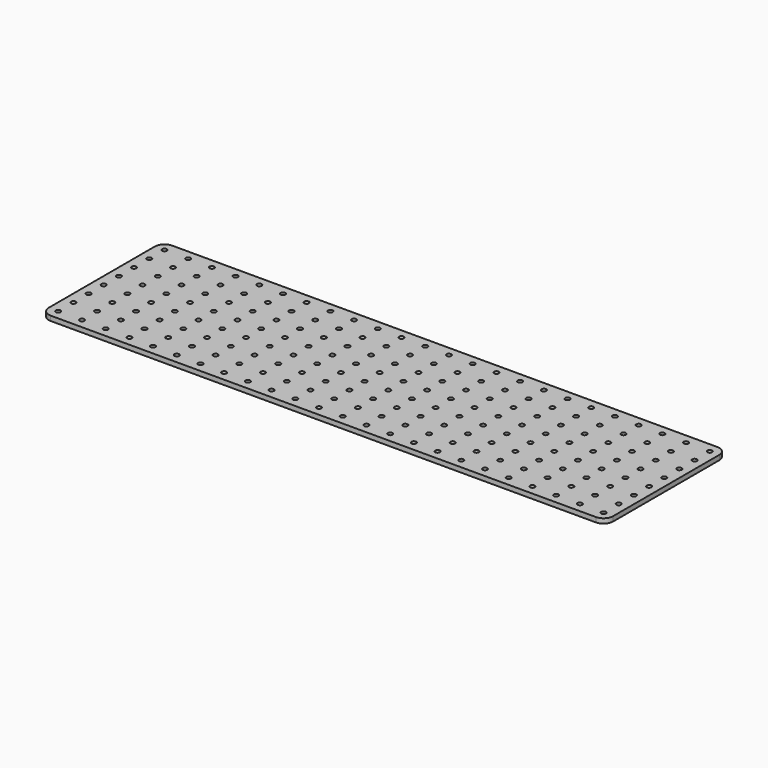
from build123d import *

# Parameters (mm, degrees)
F0_R     = 2.5
F1_DEPTH = 5


with BuildPart() as f1:
    # F0 (on Top) → F1 (new body)
    with BuildSketch(Plane.XY):
        with BuildLine():
            Line((287.5, 80), (-287.5, 80))
            ThreePointArc((-287.5, 80), (-294.571068, 77.071068), (-297.5, 70))
            Line((-297.5, 70), (-297.5, -70))
            ThreePointArc((-297.5, -70), (-294.571068, -77.071068), (-287.5, -80))
            Line((-287.5, -80), (287.5, -80))
            ThreePointArc((287.5, -80), (294.571068, -77.071068), (297.5, -70))
            Line((297.5, -70), (297.5, 70))
            ThreePointArc((297.5, 70), (294.571068, 77.071068), (287.5, 80))
        make_face()
        with Locations((-287.5, -70)):
            Circle(F0_R, mode=Mode.SUBTRACT)
        with Locations((-262.5, -70)):
            Circle(F0_R, mode=Mode.SUBTRACT)
        with Locations((-237.5, -70)):
            Circle(F0_R, mode=Mode.SUBTRACT)
        with Locations((-212.5, -70)):
            Circle(F0_R, mode=Mode.SUBTRACT)
        with Locations((-187.5, -70)):
            Circle(F0_R, mode=Mode.SUBTRACT)
        with Locations((-162.5, -70)):
            Circle(F0_R, mode=Mode.SUBTRACT)
        with Locations((-287.5, -50)):
            Circle(F0_R, mode=Mode.SUBTRACT)
        with Locations((-262.5, -50)):
            Circle(F0_R, mode=Mode.SUBTRACT)
        with Locations((-237.5, -50)):
            Circle(F0_R, mode=Mode.SUBTRACT)
        with Locations((-212.5, -50)):
            Circle(F0_R, mode=Mode.SUBTRACT)
        with Locations((-187.5, -50)):
            Circle(F0_R, mode=Mode.SUBTRACT)
        with Locations((-162.5, -50)):
            Circle(F0_R, mode=Mode.SUBTRACT)
        with Locations((-137.5, -70)):
            Circle(F0_R, mode=Mode.SUBTRACT)
        with Locations((-112.5, -70)):
            Circle(F0_R, mode=Mode.SUBTRACT)
        with Locations((-87.5, -70)):
            Circle(F0_R, mode=Mode.SUBTRACT)
        with Locations((-62.5, -70)):
            Circle(F0_R, mode=Mode.SUBTRACT)
        with Locations((-37.5, -70)):
            Circle(F0_R, mode=Mode.SUBTRACT)
        with Locations((-12.5, -70)):
            Circle(F0_R, mode=Mode.SUBTRACT)
        with Locations((-137.5, -50)):
            Circle(F0_R, mode=Mode.SUBTRACT)
        with Locations((-112.5, -50)):
            Circle(F0_R, mode=Mode.SUBTRACT)
        with Locations((-87.5, -50)):
            Circle(F0_R, mode=Mode.SUBTRACT)
        with Locations((-62.5, -50)):
            Circle(F0_R, mode=Mode.SUBTRACT)
        with Locations((-37.5, -50)):
            Circle(F0_R, mode=Mode.SUBTRACT)
        with Locations((-12.5, -50)):
            Circle(F0_R, mode=Mode.SUBTRACT)
        with Locations((-287.5, -30)):
            Circle(F0_R, mode=Mode.SUBTRACT)
        with Locations((-262.5, -30)):
            Circle(F0_R, mode=Mode.SUBTRACT)
        with Locations((-237.5, -30)):
            Circle(F0_R, mode=Mode.SUBTRACT)
        with Locations((-212.5, -30)):
            Circle(F0_R, mode=Mode.SUBTRACT)
        with Locations((-187.5, -30)):
            Circle(F0_R, mode=Mode.SUBTRACT)
        with Locations((-162.5, -30)):
            Circle(F0_R, mode=Mode.SUBTRACT)
        with Locations((-287.5, -10)):
            Circle(F0_R, mode=Mode.SUBTRACT)
        with Locations((-262.5, -10)):
            Circle(F0_R, mode=Mode.SUBTRACT)
        with Locations((-237.5, -10)):
            Circle(F0_R, mode=Mode.SUBTRACT)
        with Locations((-212.5, -10)):
            Circle(F0_R, mode=Mode.SUBTRACT)
        with Locations((-187.5, -10)):
            Circle(F0_R, mode=Mode.SUBTRACT)
        with Locations((-162.5, -10)):
            Circle(F0_R, mode=Mode.SUBTRACT)
        with Locations((-137.5, -30)):
            Circle(F0_R, mode=Mode.SUBTRACT)
        with Locations((-112.5, -30)):
            Circle(F0_R, mode=Mode.SUBTRACT)
        with Locations((-87.5, -30)):
            Circle(F0_R, mode=Mode.SUBTRACT)
        with Locations((-62.5, -30)):
            Circle(F0_R, mode=Mode.SUBTRACT)
        with Locations((-37.5, -30)):
            Circle(F0_R, mode=Mode.SUBTRACT)
        with Locations((-12.5, -30)):
            Circle(F0_R, mode=Mode.SUBTRACT)
        with Locations((-137.5, -10)):
            Circle(F0_R, mode=Mode.SUBTRACT)
        with Locations((-112.5, -10)):
            Circle(F0_R, mode=Mode.SUBTRACT)
        with Locations((-87.5, -10)):
            Circle(F0_R, mode=Mode.SUBTRACT)
        with Locations((-62.5, -10)):
            Circle(F0_R, mode=Mode.SUBTRACT)
        with Locations((-37.5, -10)):
            Circle(F0_R, mode=Mode.SUBTRACT)
        with Locations((-12.5, -10)):
            Circle(F0_R, mode=Mode.SUBTRACT)
        with Locations((12.5, -70)):
            Circle(F0_R, mode=Mode.SUBTRACT)
        with Locations((37.5, -70)):
            Circle(F0_R, mode=Mode.SUBTRACT)
        with Locations((62.5, -70)):
            Circle(F0_R, mode=Mode.SUBTRACT)
        with Locations((87.5, -70)):
            Circle(F0_R, mode=Mode.SUBTRACT)
        with Locations((112.5, -70)):
            Circle(F0_R, mode=Mode.SUBTRACT)
        with Locations((137.5, -70)):
            Circle(F0_R, mode=Mode.SUBTRACT)
        with Locations((12.5, -50)):
            Circle(F0_R, mode=Mode.SUBTRACT)
        with Locations((37.5, -50)):
            Circle(F0_R, mode=Mode.SUBTRACT)
        with Locations((62.5, -50)):
            Circle(F0_R, mode=Mode.SUBTRACT)
        with Locations((87.5, -50)):
            Circle(F0_R, mode=Mode.SUBTRACT)
        with Locations((112.5, -50)):
            Circle(F0_R, mode=Mode.SUBTRACT)
        with Locations((137.5, -50)):
            Circle(F0_R, mode=Mode.SUBTRACT)
        with Locations((162.5, -70)):
            Circle(F0_R, mode=Mode.SUBTRACT)
        with Locations((187.5, -70)):
            Circle(F0_R, mode=Mode.SUBTRACT)
        with Locations((212.5, -70)):
            Circle(F0_R, mode=Mode.SUBTRACT)
        with Locations((237.5, -70)):
            Circle(F0_R, mode=Mode.SUBTRACT)
        with Locations((262.5, -70)):
            Circle(F0_R, mode=Mode.SUBTRACT)
        with Locations((287.5, -70)):
            Circle(F0_R, mode=Mode.SUBTRACT)
        with Locations((162.5, -50)):
            Circle(F0_R, mode=Mode.SUBTRACT)
        with Locations((187.5, -50)):
            Circle(F0_R, mode=Mode.SUBTRACT)
        with Locations((212.5, -50)):
            Circle(F0_R, mode=Mode.SUBTRACT)
        with Locations((237.5, -50)):
            Circle(F0_R, mode=Mode.SUBTRACT)
        with Locations((262.5, -50)):
            Circle(F0_R, mode=Mode.SUBTRACT)
        with Locations((287.5, -50)):
            Circle(F0_R, mode=Mode.SUBTRACT)
        with Locations((12.5, -30)):
            Circle(F0_R, mode=Mode.SUBTRACT)
        with Locations((37.5, -30)):
            Circle(F0_R, mode=Mode.SUBTRACT)
        with Locations((62.5, -30)):
            Circle(F0_R, mode=Mode.SUBTRACT)
        with Locations((87.5, -30)):
            Circle(F0_R, mode=Mode.SUBTRACT)
        with Locations((112.5, -30)):
            Circle(F0_R, mode=Mode.SUBTRACT)
        with Locations((137.5, -30)):
            Circle(F0_R, mode=Mode.SUBTRACT)
        with Locations((12.5, -10)):
            Circle(F0_R, mode=Mode.SUBTRACT)
        with Locations((37.5, -10)):
            Circle(F0_R, mode=Mode.SUBTRACT)
        with Locations((62.5, -10)):
            Circle(F0_R, mode=Mode.SUBTRACT)
        with Locations((87.5, -10)):
            Circle(F0_R, mode=Mode.SUBTRACT)
        with Locations((112.5, -10)):
            Circle(F0_R, mode=Mode.SUBTRACT)
        with Locations((137.5, -10)):
            Circle(F0_R, mode=Mode.SUBTRACT)
        with Locations((162.5, -30)):
            Circle(F0_R, mode=Mode.SUBTRACT)
        with Locations((187.5, -30)):
            Circle(F0_R, mode=Mode.SUBTRACT)
        with Locations((212.5, -30)):
            Circle(F0_R, mode=Mode.SUBTRACT)
        with Locations((237.5, -30)):
            Circle(F0_R, mode=Mode.SUBTRACT)
        with Locations((262.5, -30)):
            Circle(F0_R, mode=Mode.SUBTRACT)
        with Locations((287.5, -30)):
            Circle(F0_R, mode=Mode.SUBTRACT)
        with Locations((162.5, -10)):
            Circle(F0_R, mode=Mode.SUBTRACT)
        with Locations((187.5, -10)):
            Circle(F0_R, mode=Mode.SUBTRACT)
        with Locations((212.5, -10)):
            Circle(F0_R, mode=Mode.SUBTRACT)
        with Locations((237.5, -10)):
            Circle(F0_R, mode=Mode.SUBTRACT)
        with Locations((262.5, -10)):
            Circle(F0_R, mode=Mode.SUBTRACT)
        with Locations((287.5, -10)):
            Circle(F0_R, mode=Mode.SUBTRACT)
        with Locations((-287.5, 10)):
            Circle(F0_R, mode=Mode.SUBTRACT)
        with Locations((-262.5, 10)):
            Circle(F0_R, mode=Mode.SUBTRACT)
        with Locations((-237.5, 10)):
            Circle(F0_R, mode=Mode.SUBTRACT)
        with Locations((-212.5, 10)):
            Circle(F0_R, mode=Mode.SUBTRACT)
        with Locations((-187.5, 10)):
            Circle(F0_R, mode=Mode.SUBTRACT)
        with Locations((-162.5, 10)):
            Circle(F0_R, mode=Mode.SUBTRACT)
        with Locations((-287.5, 30)):
            Circle(F0_R, mode=Mode.SUBTRACT)
        with Locations((-262.5, 30)):
            Circle(F0_R, mode=Mode.SUBTRACT)
        with Locations((-237.5, 30)):
            Circle(F0_R, mode=Mode.SUBTRACT)
        with Locations((-212.5, 30)):
            Circle(F0_R, mode=Mode.SUBTRACT)
        with Locations((-187.5, 30)):
            Circle(F0_R, mode=Mode.SUBTRACT)
        with Locations((-162.5, 30)):
            Circle(F0_R, mode=Mode.SUBTRACT)
        with Locations((-137.5, 10)):
            Circle(F0_R, mode=Mode.SUBTRACT)
        with Locations((-112.5, 10)):
            Circle(F0_R, mode=Mode.SUBTRACT)
        with Locations((-87.5, 10)):
            Circle(F0_R, mode=Mode.SUBTRACT)
        with Locations((-62.5, 10)):
            Circle(F0_R, mode=Mode.SUBTRACT)
        with Locations((-37.5, 10)):
            Circle(F0_R, mode=Mode.SUBTRACT)
        with Locations((-12.5, 10)):
            Circle(F0_R, mode=Mode.SUBTRACT)
        with Locations((-137.5, 30)):
            Circle(F0_R, mode=Mode.SUBTRACT)
        with Locations((-112.5, 30)):
            Circle(F0_R, mode=Mode.SUBTRACT)
        with Locations((-87.5, 30)):
            Circle(F0_R, mode=Mode.SUBTRACT)
        with Locations((-62.5, 30)):
            Circle(F0_R, mode=Mode.SUBTRACT)
        with Locations((-37.5, 30)):
            Circle(F0_R, mode=Mode.SUBTRACT)
        with Locations((-12.5, 30)):
            Circle(F0_R, mode=Mode.SUBTRACT)
        with Locations((-287.5, 50)):
            Circle(F0_R, mode=Mode.SUBTRACT)
        with Locations((-262.5, 50)):
            Circle(F0_R, mode=Mode.SUBTRACT)
        with Locations((-237.5, 50)):
            Circle(F0_R, mode=Mode.SUBTRACT)
        with Locations((-212.5, 50)):
            Circle(F0_R, mode=Mode.SUBTRACT)
        with Locations((-187.5, 50)):
            Circle(F0_R, mode=Mode.SUBTRACT)
        with Locations((-162.5, 50)):
            Circle(F0_R, mode=Mode.SUBTRACT)
        with Locations((-287.5, 70)):
            Circle(F0_R, mode=Mode.SUBTRACT)
        with Locations((-262.5, 70)):
            Circle(F0_R, mode=Mode.SUBTRACT)
        with Locations((-237.5, 70)):
            Circle(F0_R, mode=Mode.SUBTRACT)
        with Locations((-212.5, 70)):
            Circle(F0_R, mode=Mode.SUBTRACT)
        with Locations((-187.5, 70)):
            Circle(F0_R, mode=Mode.SUBTRACT)
        with Locations((-162.5, 70)):
            Circle(F0_R, mode=Mode.SUBTRACT)
        with Locations((-137.5, 50)):
            Circle(F0_R, mode=Mode.SUBTRACT)
        with Locations((-112.5, 50)):
            Circle(F0_R, mode=Mode.SUBTRACT)
        with Locations((-87.5, 50)):
            Circle(F0_R, mode=Mode.SUBTRACT)
        with Locations((-62.5, 50)):
            Circle(F0_R, mode=Mode.SUBTRACT)
        with Locations((-37.5, 50)):
            Circle(F0_R, mode=Mode.SUBTRACT)
        with Locations((-12.5, 50)):
            Circle(F0_R, mode=Mode.SUBTRACT)
        with Locations((-137.5, 70)):
            Circle(F0_R, mode=Mode.SUBTRACT)
        with Locations((-112.5, 70)):
            Circle(F0_R, mode=Mode.SUBTRACT)
        with Locations((-87.5, 70)):
            Circle(F0_R, mode=Mode.SUBTRACT)
        with Locations((-62.5, 70)):
            Circle(F0_R, mode=Mode.SUBTRACT)
        with Locations((-37.5, 70)):
            Circle(F0_R, mode=Mode.SUBTRACT)
        with Locations((-12.5, 70)):
            Circle(F0_R, mode=Mode.SUBTRACT)
        with Locations((12.5, 10)):
            Circle(F0_R, mode=Mode.SUBTRACT)
        with Locations((37.5, 10)):
            Circle(F0_R, mode=Mode.SUBTRACT)
        with Locations((62.5, 10)):
            Circle(F0_R, mode=Mode.SUBTRACT)
        with Locations((87.5, 10)):
            Circle(F0_R, mode=Mode.SUBTRACT)
        with Locations((112.5, 10)):
            Circle(F0_R, mode=Mode.SUBTRACT)
        with Locations((137.5, 10)):
            Circle(F0_R, mode=Mode.SUBTRACT)
        with Locations((12.5, 30)):
            Circle(F0_R, mode=Mode.SUBTRACT)
        with Locations((37.5, 30)):
            Circle(F0_R, mode=Mode.SUBTRACT)
        with Locations((62.5, 30)):
            Circle(F0_R, mode=Mode.SUBTRACT)
        with Locations((87.5, 30)):
            Circle(F0_R, mode=Mode.SUBTRACT)
        with Locations((112.5, 30)):
            Circle(F0_R, mode=Mode.SUBTRACT)
        with Locations((137.5, 30)):
            Circle(F0_R, mode=Mode.SUBTRACT)
        with Locations((162.5, 10)):
            Circle(F0_R, mode=Mode.SUBTRACT)
        with Locations((187.5, 10)):
            Circle(F0_R, mode=Mode.SUBTRACT)
        with Locations((212.5, 10)):
            Circle(F0_R, mode=Mode.SUBTRACT)
        with Locations((237.5, 10)):
            Circle(F0_R, mode=Mode.SUBTRACT)
        with Locations((262.5, 10)):
            Circle(F0_R, mode=Mode.SUBTRACT)
        with Locations((287.5, 10)):
            Circle(F0_R, mode=Mode.SUBTRACT)
        with Locations((162.5, 30)):
            Circle(F0_R, mode=Mode.SUBTRACT)
        with Locations((187.5, 30)):
            Circle(F0_R, mode=Mode.SUBTRACT)
        with Locations((212.5, 30)):
            Circle(F0_R, mode=Mode.SUBTRACT)
        with Locations((237.5, 30)):
            Circle(F0_R, mode=Mode.SUBTRACT)
        with Locations((262.5, 30)):
            Circle(F0_R, mode=Mode.SUBTRACT)
        with Locations((287.5, 30)):
            Circle(F0_R, mode=Mode.SUBTRACT)
        with Locations((12.5, 50)):
            Circle(F0_R, mode=Mode.SUBTRACT)
        with Locations((37.5, 50)):
            Circle(F0_R, mode=Mode.SUBTRACT)
        with Locations((62.5, 50)):
            Circle(F0_R, mode=Mode.SUBTRACT)
        with Locations((87.5, 50)):
            Circle(F0_R, mode=Mode.SUBTRACT)
        with Locations((112.5, 50)):
            Circle(F0_R, mode=Mode.SUBTRACT)
        with Locations((137.5, 50)):
            Circle(F0_R, mode=Mode.SUBTRACT)
        with Locations((12.5, 70)):
            Circle(F0_R, mode=Mode.SUBTRACT)
        with Locations((37.5, 70)):
            Circle(F0_R, mode=Mode.SUBTRACT)
        with Locations((62.5, 70)):
            Circle(F0_R, mode=Mode.SUBTRACT)
        with Locations((87.5, 70)):
            Circle(F0_R, mode=Mode.SUBTRACT)
        with Locations((112.5, 70)):
            Circle(F0_R, mode=Mode.SUBTRACT)
        with Locations((137.5, 70)):
            Circle(F0_R, mode=Mode.SUBTRACT)
        with Locations((162.5, 50)):
            Circle(F0_R, mode=Mode.SUBTRACT)
        with Locations((187.5, 50)):
            Circle(F0_R, mode=Mode.SUBTRACT)
        with Locations((212.5, 50)):
            Circle(F0_R, mode=Mode.SUBTRACT)
        with Locations((237.5, 50)):
            Circle(F0_R, mode=Mode.SUBTRACT)
        with Locations((262.5, 50)):
            Circle(F0_R, mode=Mode.SUBTRACT)
        with Locations((287.5, 50)):
            Circle(F0_R, mode=Mode.SUBTRACT)
        with Locations((162.5, 70)):
            Circle(F0_R, mode=Mode.SUBTRACT)
        with Locations((187.5, 70)):
            Circle(F0_R, mode=Mode.SUBTRACT)
        with Locations((212.5, 70)):
            Circle(F0_R, mode=Mode.SUBTRACT)
        with Locations((237.5, 70)):
            Circle(F0_R, mode=Mode.SUBTRACT)
        with Locations((262.5, 70)):
            Circle(F0_R, mode=Mode.SUBTRACT)
        with Locations((287.5, 70)):
            Circle(F0_R, mode=Mode.SUBTRACT)
    extrude(amount=F1_DEPTH)


solid = f1.part
